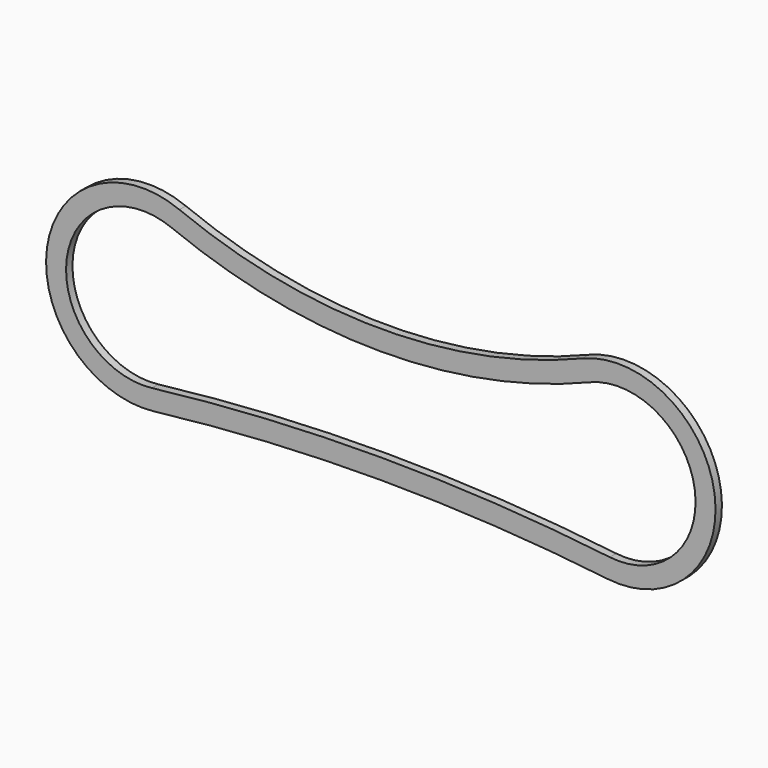
from build123d import *

# Parameters (mm, degrees)
F1_DEPTH = 20


with BuildPart() as f1:
    # F0 (on Front) → F1 (new body)
    with BuildSketch(Plane.XZ):
        with BuildLine():
            ThreePointArc((503.580696, 224.274647), (-0.154458, 125.705699), (-503.889612, 224.274647))
            ThreePointArc((-503.889612, 224.274647), (-835.094873, 32.511338), (-566.861965, -240.474374))
            ThreePointArc((-566.861965, -240.474374), (-0.154458, -207.251575), (566.55305, -240.474374))
            ThreePointArc((566.55305, -240.474374), (834.785957, 32.511338), (503.580696, 224.274647))
        make_face()
        with BuildLine():
            ThreePointArc((-572.704311, -190.816877), (-785.547637, 25.797809), (-522.735627, 177.962363))
            ThreePointArc((-522.735627, 177.962363), (-0.154458, 75.705699), (522.426711, 177.962363))
            ThreePointArc((522.426711, 177.962363), (785.238721, 25.797809), (572.395395, -190.816877))
            ThreePointArc((572.395395, -190.816877), (-0.154458, -157.251575), (-572.704311, -190.816877))
        make_face(mode=Mode.SUBTRACT)
    extrude(amount=F1_DEPTH)


solid = f1.part
